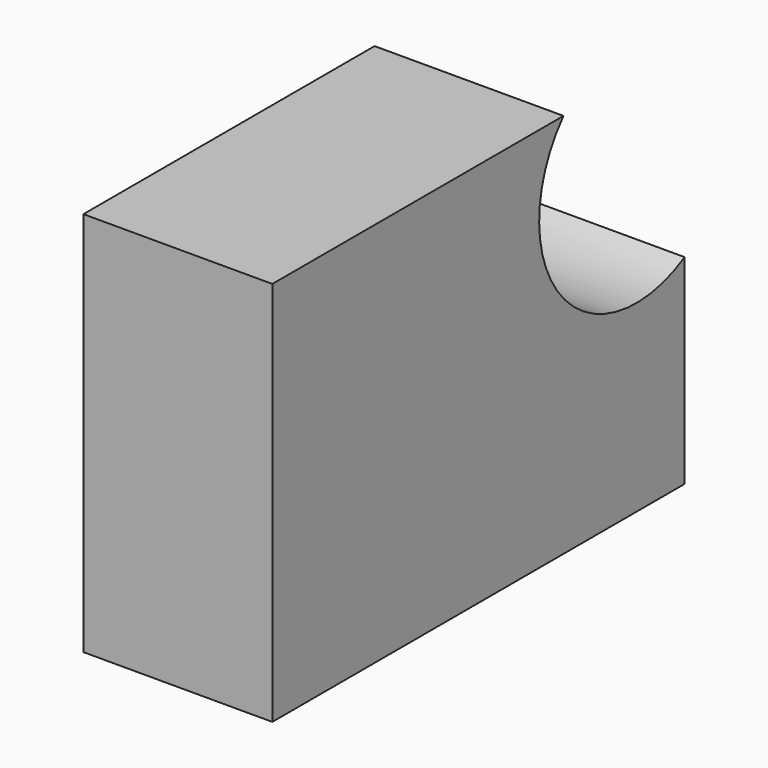
from build123d import *

# Parameters (mm, degrees)
F1_DEPTH = 25


with BuildPart() as f1:
    # F0 (on Right) → F1 (new body)
    with BuildSketch(Plane.YZ):
        with BuildLine():
            Line((-37.720386, 35.665106), (-37.720386, -15.354129))
            Line((-37.720386, -15.354129), (30.466465, -15.354129))
            Line((30.466465, -15.354129), (30.466465, 11.070736))
            ThreePointArc((30.466465, 11.070736), (10.022574, 14.874479), (10.43603, 35.665106))
            Line((10.43603, 35.665106), (-37.720386, 35.665106))
        make_face()
    extrude(amount=F1_DEPTH)


solid = f1.part
